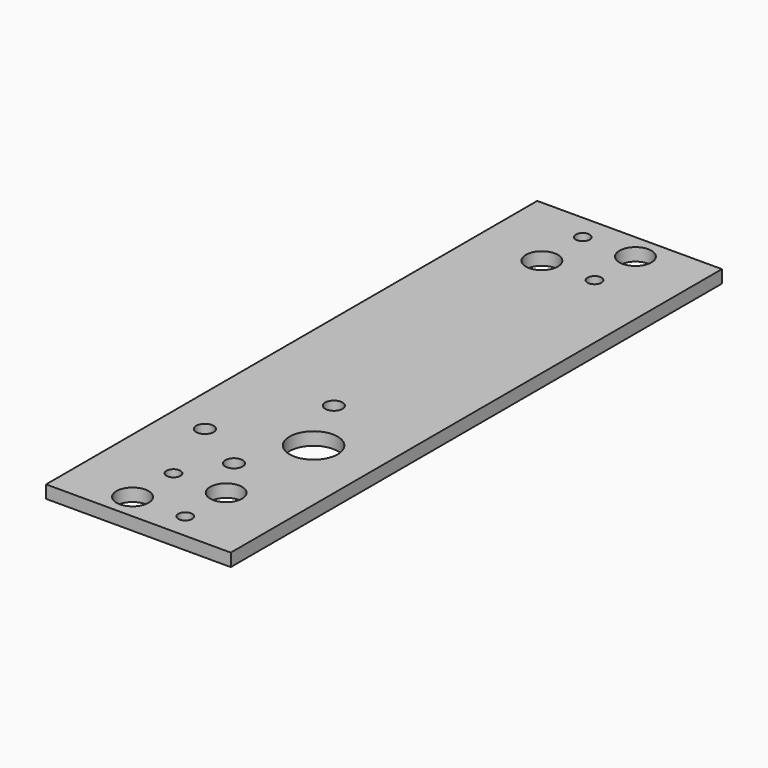
from build123d import *

# Parameters (mm, degrees)
F0_W     = 45.847
F0_H     = 152.4
F0_R     = 2.15265
F0_R_2   = 3.96875
F0_R_3   = 1.7272
F0_R_4   = 5.969
F1_DEPTH = 3.175


with BuildPart() as f1:
    # F0 (on Top) → F1 (new body)
    with BuildSketch(Plane.XY):
        with Locations((22.9235, -76.2)):
            Rectangle(F0_W, F0_H)
        with Locations((9.505302, -114.999499)):
            Circle(F0_R, mode=Mode.SUBTRACT)
        with Locations((16.383, -146.05)):
            Circle(F0_R_2, mode=Mode.SUBTRACT)
        with Locations((16.383, -133.35)):
            Circle(F0_R_3, mode=Mode.SUBTRACT)
        with Locations((29.464, -146.05)):
            Circle(F0_R_3, mode=Mode.SUBTRACT)
        with Locations((22.9235, -122.746499)):
            Circle(F0_R, mode=Mode.SUBTRACT)
        with Locations((29.464, -133.35)):
            Circle(F0_R_2, mode=Mode.SUBTRACT)
        with Locations((30.2895, -107.252499)):
            Circle(F0_R_4, mode=Mode.SUBTRACT)
        with Locations((22.9235, -91.758499)):
            Circle(F0_R, mode=Mode.SUBTRACT)
        with Locations((16.383, -19.05)):
            Circle(F0_R_2, mode=Mode.SUBTRACT)
        with Locations((16.383, -6.35)):
            Circle(F0_R_3, mode=Mode.SUBTRACT)
        with Locations((29.464, -19.05)):
            Circle(F0_R_3, mode=Mode.SUBTRACT)
        with Locations((29.464, -6.35)):
            Circle(F0_R_2, mode=Mode.SUBTRACT)
    extrude(amount=F1_DEPTH)


solid = f1.part
